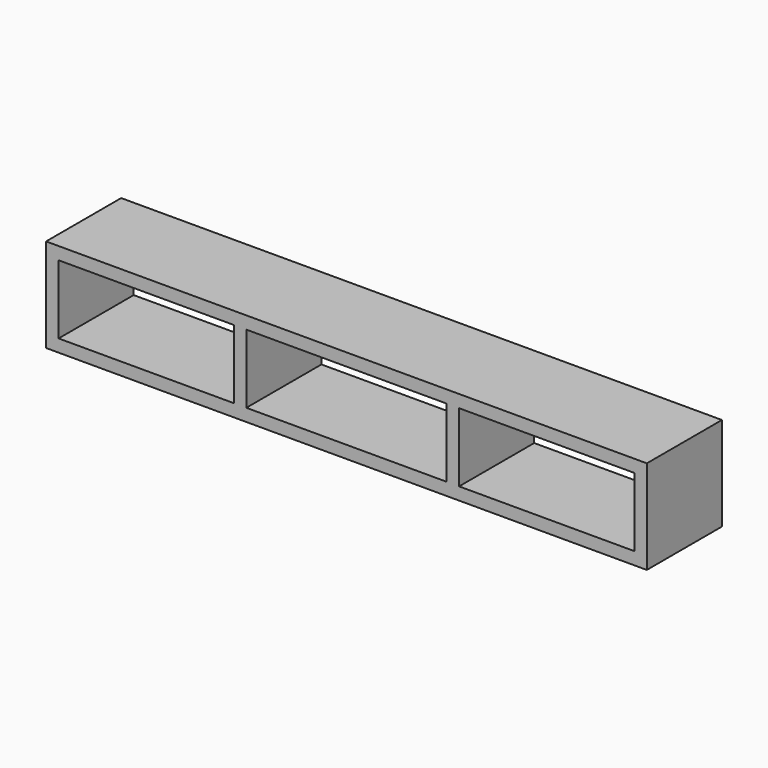
from build123d import *

# Parameters (mm, degrees)
F1_DEPTH = 381
F0_W     = 50.8
F0_H     = 279.4
F2_DEPTH = 381


with BuildPart() as f1:
    # F0 (on Front) → F1 (new body)
    with BuildSketch(Plane.XZ):
        Polygon((50.8, 50.8), (0, 0), (2438.4, 0), (2387.6, 50.8), (1676.4, 50.8), (1625.6, 50.8), (812.8, 50.8), (762, 50.8), align=None)
        Polygon((0, 381), (0, 0), (50.8, 50.8), (50.8, 330.2), align=None)
        Polygon((2387.6, 50.8), (2438.4, 0), (2438.4, 381), (2387.6, 330.2), align=None)
        Polygon((2438.4, 381), (0, 381), (50.8, 330.2), (762, 330.2), (812.8, 330.2), (1625.6, 330.2), (1676.4, 330.2), (2387.6, 330.2), align=None)
    extrude(amount=F1_DEPTH)

    # F0 (on Front) → F2 (join)
    with BuildSketch(Plane.XZ):
        Polygon((50.8, 50.8), (0, 0), (2438.4, 0), (2387.6, 50.8), (1676.4, 50.8), (1625.6, 50.8), (812.8, 50.8), (762, 50.8), align=None)
        Polygon((0, 381), (0, 0), (50.8, 50.8), (50.8, 330.2), align=None)
        Polygon((2387.6, 50.8), (2438.4, 0), (2438.4, 381), (2387.6, 330.2), align=None)
        Polygon((2438.4, 381), (0, 381), (50.8, 330.2), (762, 330.2), (812.8, 330.2), (1625.6, 330.2), (1676.4, 330.2), (2387.6, 330.2), align=None)
        with Locations((787.4, 190.5)):
            Rectangle(F0_W, F0_H)
        with Locations((1651, 190.5)):
            Rectangle(F0_W, F0_H)
    extrude(amount=F2_DEPTH)


solid = f1.part
